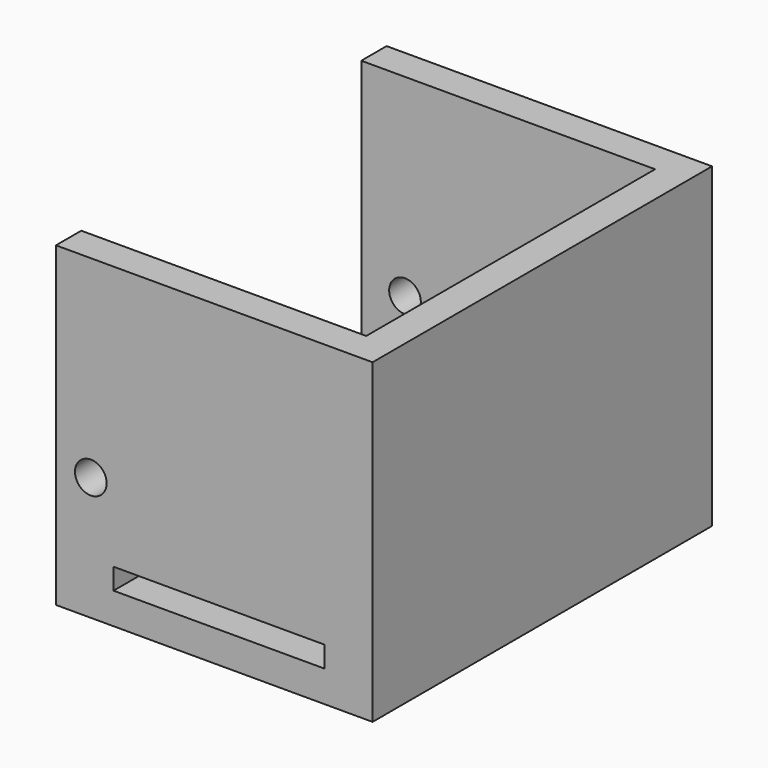
from build123d import *

# Parameters (mm, degrees)
F1_DEPTH = 30
F2_W     = 20
F2_H     = 2
F2_R     = 1.5
F3_DEPTH = 40.208781


with BuildPart() as f1:
    # F0 (on Top) → F1 (new body)
    with BuildSketch(Plane.XY):
        Polygon((-33.870081, 16.887799), (-33.870081, 13.887799), (-6.031976, 13.887799), (-6.031976, -20.320982), (-33.031976, -20.320982), (-33.031976, -23.320982), (-3.031976, -23.320982), (-3.031976, 16.887799), align=None)
    extrude(amount=F1_DEPTH)

    # F2 (on face) → F3 (cut, through all)
    with BuildSketch(Plane.XZ.offset(23.320982)):
        with Locations((-17.575068, 3.965698)):
            Rectangle(F2_W, F2_H)
        with Locations((-29.72668, 11.704408)):
            Circle(F2_R)
    extrude(amount=-F3_DEPTH, mode=Mode.SUBTRACT)


solid = f1.part
